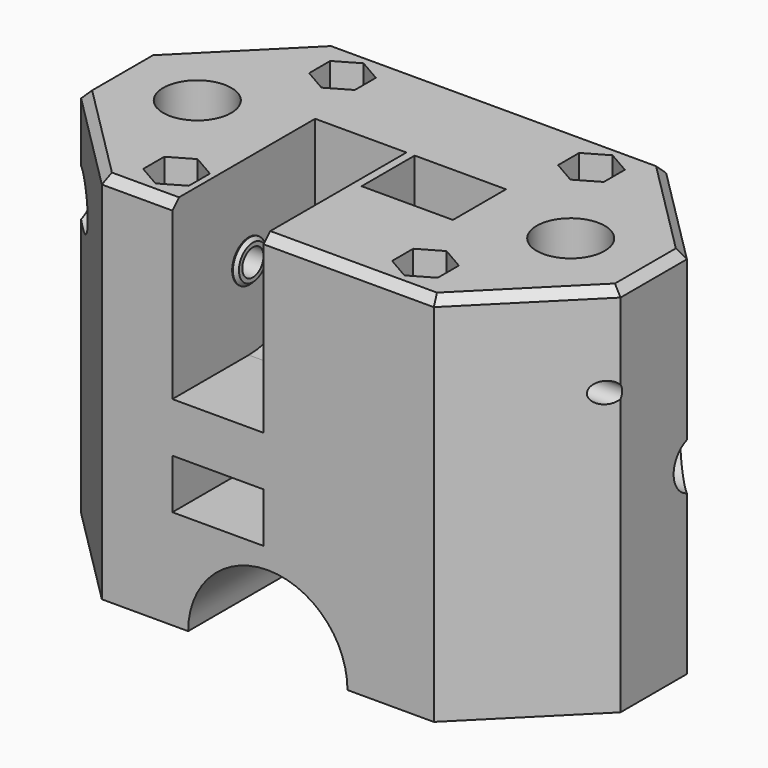
from build123d import *

# Parameters (mm, degrees)
SKETCH_R             = 1.6
PAD_DEPTH            = 45
SKETCH001_R          = 4.1
POCKET_DEPTH         = 37
SKETCH002_R          = 9.6
POCKET001_DEPTH      = 17.501
POCKET001_DEPTH_BACK = 17.501
SKETCH003_R          = 2.5
SKETCH003_W          = 35
SKETCH003_H          = 6
POCKET002_DEPTH      = 5.5
SKETCH004_R          = 4
POCKET003_DEPTH      = 5
SKETCH005_R          = 2.5
POCKET004_DEPTH      = 5.5
SKETCH006_R          = 4
POCKET005_DEPTH      = 5
SKETCH007_R          = 1.25
POCKET006_DEPTH      = 32.501
POCKET006_DEPTH_BACK = 32.501
SKETCH008_R          = 1.6
POCKET007_DEPTH      = 20
SKETCH009_R          = 3
POCKET008_DEPTH      = 6
SKETCH010_R          = 3
POCKET009_DEPTH      = 6
SKETCH011_R          = 3
POCKET010_DEPTH      = 3
CHAMFER_SIZE         = 1
CHAMFER001_SIZE      = 0.4


with BuildPart() as part:
    # Sketch → Pad (new body)
    with BuildSketch(Plane.XY):
        Polygon((-32.5, 5), (-32.5, -5), (-20, -17.5), (20, -17.5), (32.5, -5), (32.5, 5), (20, 17.5), (-20, 17.5), align=None)
        with Locations((-15, 12.5)):
            Circle(SKETCH_R, mode=Mode.SUBTRACT)
        with Locations((-15, -12.5)):
            Circle(SKETCH_R, mode=Mode.SUBTRACT)
        with Locations((15, -12.5)):
            Circle(SKETCH_R, mode=Mode.SUBTRACT)
        with Locations((15, 12.5)):
            Circle(SKETCH_R, mode=Mode.SUBTRACT)
        with Locations((22.5, 0)):
            Circle(SKETCH_R, mode=Mode.SUBTRACT)
        with Locations((-22.5, 0)):
            Circle(SKETCH_R, mode=Mode.SUBTRACT)
    extrude(amount=PAD_DEPTH)

    # Sketch001 (on Face16 of Pad) → Pocket (cut)
    with BuildSketch(Plane.XY.offset(45)):
        with Locations((-22.5, 0)):
            Circle(SKETCH001_R)
        with Locations((22.5, 0)):
            Circle(SKETCH001_R)
        Polygon((-12.25, 10.912287), (-12.25, 14.087713), (-15, 15.675426), (-17.75, 14.087713), (-17.75, 10.912287), (-15, 9.324574), align=None)
        Polygon((17.75, 10.912287), (17.75, 14.087713), (15, 15.675426), (12.25, 14.087713), (12.25, 10.912287), (15, 9.324574), align=None)
        Polygon((-12.25, -14.087713), (-12.25, -10.912287), (-15, -9.324574), (-17.75, -10.912287), (-17.75, -14.087713), (-15, -15.675426), align=None)
        Polygon((17.75, -14.087713), (17.75, -10.912287), (15, -9.324574), (12.25, -10.912287), (12.25, -14.087713), (15, -15.675426), align=None)
    extrude(amount=-POCKET_DEPTH, mode=Mode.SUBTRACT)

    # Sketch002 → Pocket001 (cut, two sides)
    with BuildSketch(Plane.XZ) as pocket001_sk:
        Circle(SKETCH002_R)
    extrude(amount=-POCKET001_DEPTH, mode=Mode.SUBTRACT)
    extrude(pocket001_sk.sketch, amount=POCKET001_DEPTH_BACK, mode=Mode.SUBTRACT)

    # Sketch003 (on DatumPlane) → Pocket002 (cut, symmetric)
    with BuildSketch(Plane.YZ.offset(-6)):
        with BuildLine():
            ThreePointArc((-6, 24), (1.071068, 26.928932), (4, 34))
            Line((4, 45), (4, 34))
            Line((-17.5, 45), (4, 45))
            Line((-17.5, 24), (-17.5, 45))
            Line((-6, 24), (-17.5, 24))
        make_face()
        with Locations((-6, 34)):
            Circle(SKETCH003_R, mode=Mode.SUBTRACT)
        with Locations((0, 15)):
            Rectangle(SKETCH003_W, SKETCH003_H)
    extrude(amount=POCKET002_DEPTH, both=True, mode=Mode.SUBTRACT)

    # Sketch004 (on DatumPlane) → Pocket003 (cut, symmetric)
    with BuildSketch(Plane.YZ.offset(-6)):
        with Locations((-6, 34)):
            Circle(SKETCH004_R)
    extrude(amount=POCKET003_DEPTH, both=True, mode=Mode.SUBTRACT)

    # Sketch005 (on DatumPlane) → Pocket004 (cut, symmetric)
    with BuildSketch(Plane.YZ.offset(6)):
        with BuildLine():
            ThreePointArc((-4, 22), (-1.071068, 14.928932), (6, 12))
            Line((17.5, 12), (6, 12))
            Line((17.5, 32), (17.5, 12))
            Line((4, 32), (17.5, 32))
            Line((4, 45), (4, 32))
            Line((-4, 45), (4, 45))
            Line((-4, 22), (-4, 45))
        make_face()
        with Locations((6, 22)):
            Circle(SKETCH005_R, mode=Mode.SUBTRACT)
    extrude(amount=POCKET004_DEPTH, both=True, mode=Mode.SUBTRACT)

    # Sketch006 (on DatumPlane) → Pocket005 (cut, symmetric)
    with BuildSketch(Plane.YZ.offset(6)):
        with Locations((6, 22)):
            Circle(SKETCH006_R)
    extrude(amount=POCKET005_DEPTH, both=True, mode=Mode.SUBTRACT)

    # Sketch007 → Pocket006 (cut, two sides)
    with BuildSketch(Plane.YZ) as pocket006_sk:
        with Locations((-6, 34)):
            Circle(SKETCH007_R)
        with Locations((6, 22)):
            Circle(SKETCH007_R)
    extrude(amount=-POCKET006_DEPTH, mode=Mode.SUBTRACT)
    extrude(pocket006_sk.sketch, amount=POCKET006_DEPTH_BACK, mode=Mode.SUBTRACT)

    # Sketch008 → Pocket007 (cut, symmetric)
    with BuildSketch(Plane.YZ):
        with Locations((-6, 34)):
            Circle(SKETCH008_R)
        with Locations((6, 22)):
            Circle(SKETCH008_R)
    extrude(amount=POCKET007_DEPTH, both=True, mode=Mode.SUBTRACT)

    # Sketch009 (on Face16 of Pocket007) → Pocket008 (cut)
    with BuildSketch(Plane.YZ.offset(32.5)):
        with Locations((6, 22)):
            Circle(SKETCH009_R)
    extrude(amount=-POCKET008_DEPTH, mode=Mode.SUBTRACT)

    # Sketch010 (on Face1 of Pocket008) → Pocket009 (cut)
    with BuildSketch(Plane(origin=(-32.5, 0, 0), x_dir=(0, -1, 0), z_dir=(-1, 0, 0))):
        with Locations((6, 34)):
            Circle(SKETCH010_R)
    extrude(amount=-POCKET009_DEPTH, mode=Mode.SUBTRACT)

    # Sketch011 (on Face2 of Pocket009) → Pocket010 (cut)
    with BuildSketch(Plane(origin=(0, 0, 0), x_dir=(1, 0, 0), z_dir=(0, 0, -1))):
        with Locations((-22.5, 0)):
            Circle(SKETCH011_R)
        with Locations((22.5, 0)):
            Circle(SKETCH011_R)
    extrude(amount=-POCKET010_DEPTH, mode=Mode.SUBTRACT)

    # Chamfer
    chamfer_edges = [part.edges().sort_by_distance(p)[0] for p in [
        (-15.75, -17.5, 45),
        (-26.25, -11.25, 45),
        (-32.5, 0, 45),
        (-26.25, 11.25, 45),
        (0, 17.5, 45),
        (26.25, 11.25, 45),
        (32.5, 0, 45),
        (26.25, -11.25, 45),
        (9.75, -17.5, 45),
    ]]
    chamfer(chamfer_edges, length=CHAMFER_SIZE)

    # Chamfer001
    chamfer001_edges = [part.edges().sort_by_distance(p)[0] for p in [
        (-11, -8.5, 34),
        (-1, -8.5, 34),
        (1, 3.5, 22),
        (11, 3.5, 22),
    ]]
    chamfer(chamfer001_edges, length=CHAMFER001_SIZE)


solid = part.part
